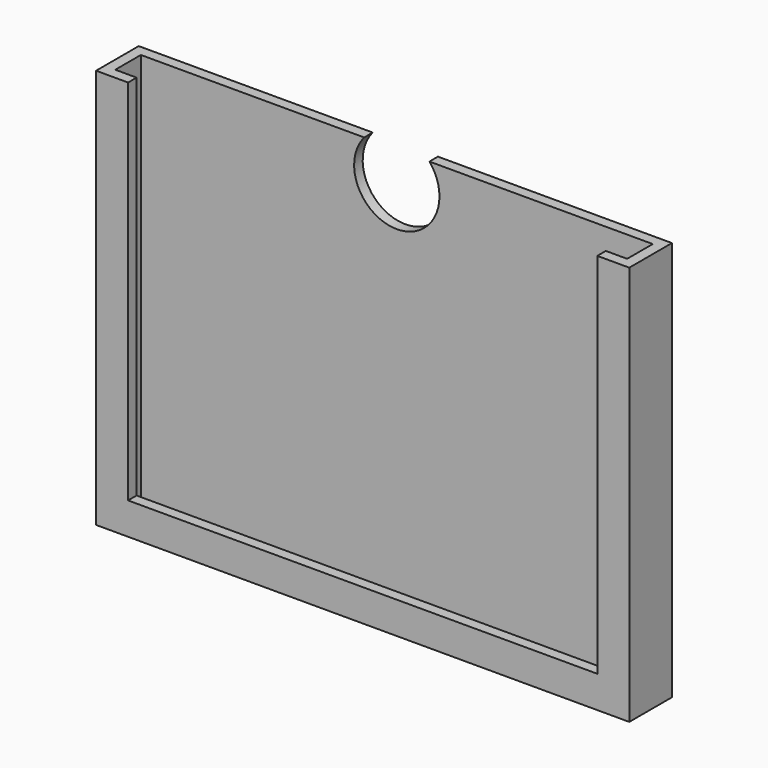
from build123d import *

# Parameters (mm, degrees)
F0_W     = 100
F0_H     = 75
F1_DEPTH = 10
F2_T     = -2
F3_W     = 88
F3_H     = 69
F4_DEPTH = 5
F6_DEPTH = 10.001


with BuildPart() as f1:
    # F0 (on Front) → F1 (new body)
    with BuildSketch(Plane.XZ):
        with Locations((-50, 37.5)):
            Rectangle(F0_W, F0_H)
        with Locations((-50, 37.5)):
            Rectangle(F0_W, F0_H)
    extrude(amount=F1_DEPTH)

    # F2
    f2_openings = [f1.faces().sort_by_distance(p)[0] for p in [
        (-50, -5, 75),
    ]]
    offset(amount=F2_T, openings=f2_openings)

    # F3 (on face) → F4 (cut)
    with BuildSketch(Plane.XZ.offset(10)):
        with Locations((-50, 40.5)):
            Rectangle(F3_W, F3_H)
    extrude(amount=-F4_DEPTH, mode=Mode.SUBTRACT)

    # F5 (on face) → F6 (cut, through all)
    with BuildSketch(Plane.XZ.offset(10)):
        with BuildLine():
            ThreePointArc((-56.115779, 75), (-52.745338, 62.328554), (-42, 69.842748))
            ThreePointArc((-42, 69.842748), (-42.485806, 72.588087), (-43.884221, 75))
            Line((-43.884221, 75), (-56.115779, 75))
        make_face()
    extrude(amount=-F6_DEPTH, mode=Mode.SUBTRACT)


solid = f1.part
